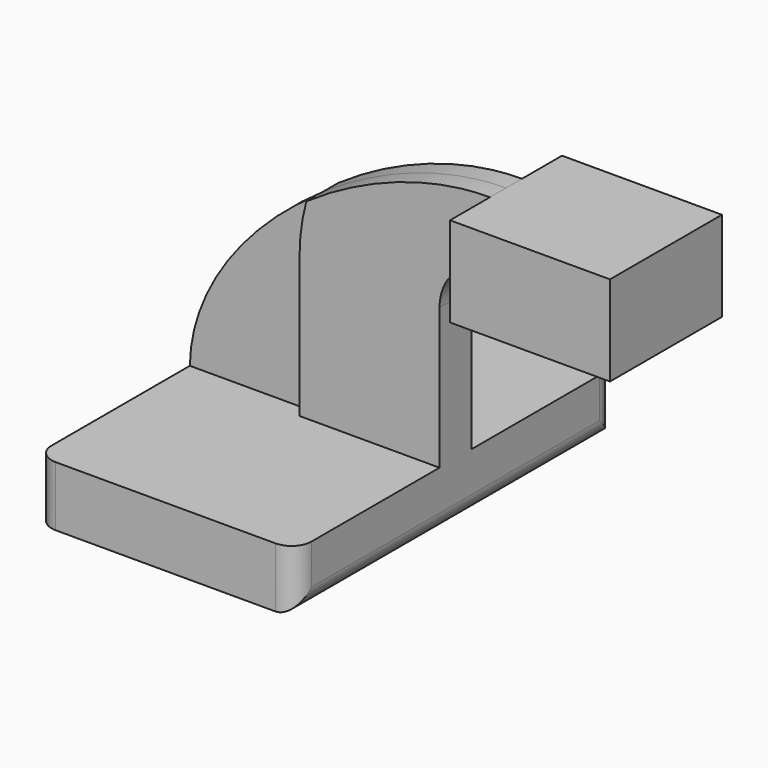
from build123d import *

# Parameters (mm, degrees)
F1_DEPTH = 63.5
F2_DEPTH = 6.35
F3_DEPTH = 22.225
F4_DEPTH = 2.286
F5_R     = 6.35


with BuildPart() as f1:
    # F0 (on Front) → F1 (new body, symmetric)
    with BuildSketch(Plane.XZ):
        Polygon((41.275, -9.525), (41.275, 9.525), (-3.175, 9.525), (-41.275, 9.525), (-41.275, -9.525), align=None)
    extrude(amount=F1_DEPTH, both=True)

    # F0 (on Front) → F2 (join, symmetric)
    with BuildSketch(Plane.XZ):
        with BuildLine():
            Line((-3.175, 9.525), (41.275, 9.525))
            Line((41.275, 9.525), (41.275, 54.246902))
            ThreePointArc((41.275, 54.246902), (45.92468, 65.472222), (57.15, 70.121902))
            Line((57.15, 70.121902), (57.320657, 70.121902))
            Line((57.320657, 70.121902), (57.320657, 90.37864))
            add(Edge.make_bspline(
                [(-1.011012, 70.259469), (16.740772, 82.473388), (37.932847, 90.39046), (57.320657, 90.37864)],
                knots=[71.739647, 71.739647, 71.739647, 71.739647, 127.508489, 127.508489, 127.508489, 127.508489], degree=3))
            ThreePointArc((-1.011012, 70.259469), (-2.631555, 62.325967), (-3.175, 54.246902))
            Line((-3.175, 54.246902), (-3.175, 9.525))
        make_face()
    extrude(amount=F2_DEPTH, both=True)

    # F0 (on Front) → F3 (join, symmetric)
    with BuildSketch(Plane.XZ):
        Polygon((57.320657, 90.37864), (57.320657, 70.121902), (57.320657, 61.80364), (108.120657, 61.80364), (108.120657, 90.37864), align=None)
    extrude(amount=F3_DEPTH, both=True)

    # F0 (on Front) → F4 (join)
    with BuildSketch(Plane.XZ):
        with BuildLine():
            Line((-41.275, 9.525), (-3.175, 9.525))
            Line((-3.175, 9.525), (-3.175, 54.246902))
            ThreePointArc((-3.175, 54.246902), (-2.631555, 62.325967), (-1.011012, 70.259469))
            add(Edge.make_bspline(
                [(-41.275, 9.525), (-40.989055, 31.725856), (-23.846463, 54.547789), (-1.011012, 70.259469)],
                knots=[0, 0, 0, 0, 71.739647, 71.739647, 71.739647, 71.739647], degree=3))
        make_face()
    extrude(amount=F4_DEPTH)

    # F5
    f5_edges = [f1.edges().sort_by_distance(p)[0] for p in [
        (41.275, 63.5, 0),
        (-41.275, 63.5, 0),
        (41.275, -63.5, 0),
        (-41.275, -63.5, 0),
        (41.275, 0, -9.525),
    ]]
    fillet(f5_edges, radius=F5_R)


solid = f1.part
